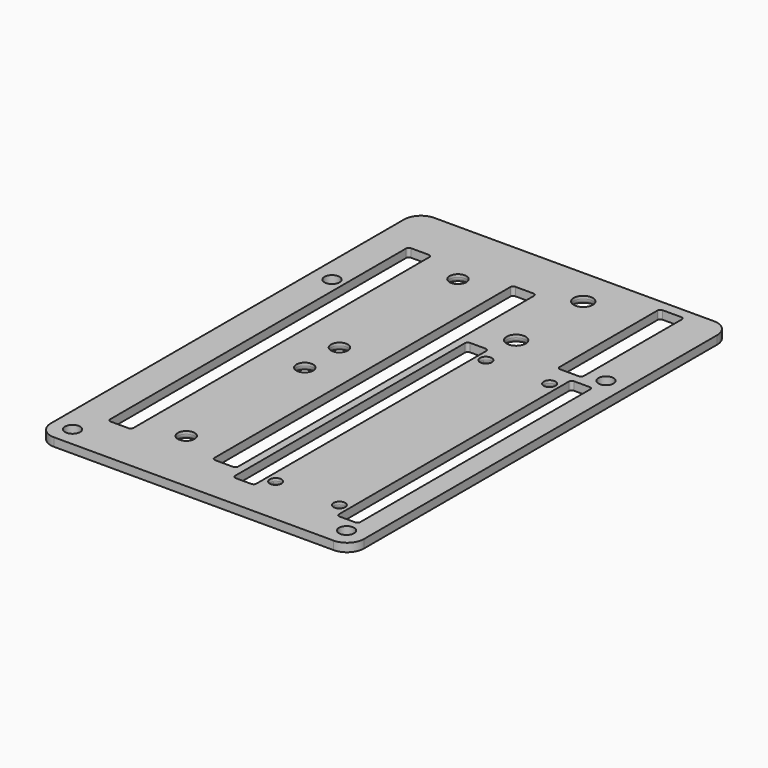
from build123d import *

# Parameters (mm, degrees)
SKETCH001_R   = 1.35
SKETCH001_R_2 = 1.05
SKETCH001_R_3 = 1.5
SKETCH001_R_4 = 1.7
SKETCH001_W   = 3.81
SKETCH001_H   = 52.4
SKETCH001_W_2 = 4.1752
SKETCH001_H_2 = 67.150004
SKETCH001_W_3 = 4.242031
SKETCH001_W_4 = 4.341
SKETCH001_H_3 = 22.9
PAD_DEPTH     = 1.5
FILLET_R      = 0.5
FILLET001_R   = 1


with BuildPart() as part:
    # Sketch001 → Pad (new body)
    with BuildSketch(Plane.XY):
        with BuildLine():
            Line((-28, 39.5), (-28, -39.5))
            ThreePointArc((-28, -39.5), (-27.12132, -41.62132), (-25, -42.5))
            Line((-25, -42.5), (25, -42.5))
            ThreePointArc((25, -42.5), (27.12132, -41.62132), (28, -39.5))
            Line((28, -39.5), (28, 39.5))
            ThreePointArc((28, 39.5), (27.12132, 41.62132), (25, 42.5))
            Line((25, 42.5), (-25, 42.5))
            ThreePointArc((-25, 42.5), (-27.12132, 41.62132), (-28, 39.5))
        make_face()
        with Locations((-24.5, 19)):
            Circle(SKETCH001_R, mode=Mode.SUBTRACT)
        with Locations((24.5, 19)):
            Circle(SKETCH001_R, mode=Mode.SUBTRACT)
        with Locations((24.5, -39)):
            Circle(SKETCH001_R, mode=Mode.SUBTRACT)
        with Locations((-24.5, -39)):
            Circle(SKETCH001_R, mode=Mode.SUBTRACT)
        with Locations((7.5, 13.4)):
            Circle(SKETCH001_R_2, mode=Mode.SUBTRACT)
        with Locations((18.9, 13.4)):
            Circle(SKETCH001_R_2, mode=Mode.SUBTRACT)
        with Locations((18.9, -33.6)):
            Circle(SKETCH001_R_2, mode=Mode.SUBTRACT)
        with Locations((7.5, -33.6)):
            Circle(SKETCH001_R_2, mode=Mode.SUBTRACT)
        with Locations((-10.850001, -30.650002)):
            Circle(SKETCH001_R_3, mode=Mode.SUBTRACT)
        with Locations((-10.850001, -4.150002)):
            Circle(SKETCH001_R_3, mode=Mode.SUBTRACT)
        with Locations((-10.850001, 3.600002)):
            Circle(SKETCH001_R_3, mode=Mode.SUBTRACT)
        with Locations((-10.850001, 30.100002)):
            Circle(SKETCH001_R_3, mode=Mode.SUBTRACT)
        with Locations((7.026664, 20.761819)):
            Circle(SKETCH001_R_4, mode=Mode.SUBTRACT)
        with Locations((7.026664, 35.761819)):
            Circle(SKETCH001_R_4, mode=Mode.SUBTRACT)
        with Locations((3.905, -10.1)):
            Rectangle(SKETCH001_W, SKETCH001_H, mode=Mode.SUBTRACT)
        with Locations((22.495, -10.1)):
            Rectangle(SKETCH001_W, SKETCH001_H, mode=Mode.SUBTRACT)
        with Locations((-20.212401, -0.275)):
            Rectangle(SKETCH001_W_2, SKETCH001_H_2, mode=Mode.SUBTRACT)
        with Locations((-1.521016, -0.275)):
            Rectangle(SKETCH001_W_3, SKETCH001_H_2, mode=Mode.SUBTRACT)
        with Locations((19.007164, 29.161819)):
            Rectangle(SKETCH001_W_4, SKETCH001_H_3, mode=Mode.SUBTRACT)
    extrude(amount=PAD_DEPTH)

    # Fillet
    fillet_edges = [part.edges().sort_by_distance(p)[0] for p in [
        (20.59, -36.3, 0.75),
        (24.4, -36.3, 0.75),
        (5.81, -36.3, 0.75),
        (2, -36.3, 0.75),
        (24.4, 16.1, 0.75),
        (5.81, 16.1, 0.75),
        (20.59, 16.1, 0.75),
        (2, 16.1, 0.75),
        (21.177664, 17.711819, 0.75),
        (16.836664, 17.711819, 0.75),
        (21.177664, 40.611819, 0.75),
        (16.836664, 40.611819, 0.75),
        (0.599999, 33.300002, 0.75),
        (-3.642032, 33.300002, 0.75),
        (-18.124801, 33.300002, 0.75),
        (-22.300001, 33.300002, 0.75),
        (0.599999, -33.850002, 0.75),
        (-18.124801, -33.850002, 0.75),
        (-22.300001, -33.850002, 0.75),
        (-3.642032, -33.850002, 0.75),
    ]]
    fillet(fillet_edges, radius=FILLET_R)

    # Fillet001
    fillet001_edges = [part.edges().sort_by_distance(p)[0] for p in [
        (5.326664, 35.761819, 0),
        (5.326664, 20.761819, 0),
        (17.85, -33.6, 0),
        (6.45, -33.6, 0),
        (17.85, 13.4, 0),
        (6.45, 13.4, 0),
        (-12.350001, 30.100002, 0),
        (-12.350001, 3.600002, 0),
        (-12.350001, -4.150002, 0),
        (-12.350001, -30.650002, 0),
    ]]
    fillet(fillet001_edges, radius=FILLET001_R)


solid = part.part
